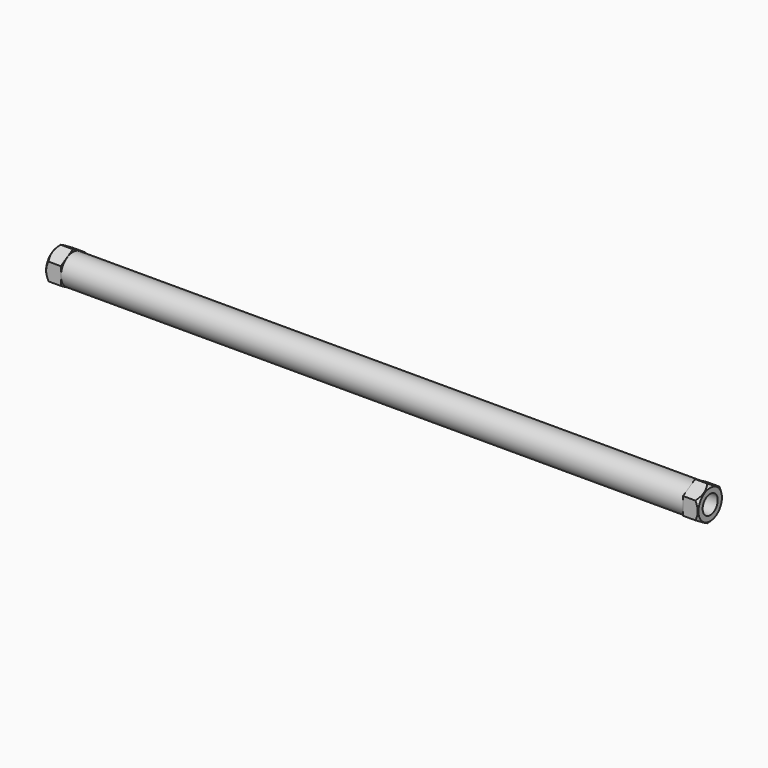
from build123d import *

# Parameters (mm, degrees)
F0_R     = 7.95
F0_R_2   = 6.45
F1_DEPTH = 165
F2_R     = 5
F3_DEPTH = 8


with BuildPart() as f1:
    # F0 (on Right) → F1 (new body, symmetric)
    with BuildSketch(Plane.YZ):
        Circle(F0_R)
        Circle(F0_R_2, mode=Mode.SUBTRACT)
    extrude(amount=F1_DEPTH, both=True)


with BuildPart() as f3:
    # F2 (on face) → F3 (new body)
    with BuildSketch(Plane.YZ.offset(165)):
        Polygon((8, -4.618802), (8, 4.618802), (0, 9.237604), (-8, 4.618802), (-8, -4.618802), (0, -9.237604), align=None)
        Circle(F2_R, mode=Mode.SUBTRACT)
    extrude(amount=F3_DEPTH)

    # F4 (on Front) → F5 (revolve, cut)
    with BuildSketch(Plane.XZ):
        Polygon((173, 7.788003), (173, 9.237604), (171.550399, 9.237604), align=None)
    revolve(axis=Axis((116.156034, 0, 0), (1, 0, 0)), mode=Mode.SUBTRACT)


with BuildPart() as f6_1:
    # F6: instance of F3
    add(f3.part.mirror(Plane.YZ))


solid = Compound([f1.part, f3.part, f6_1.part])
